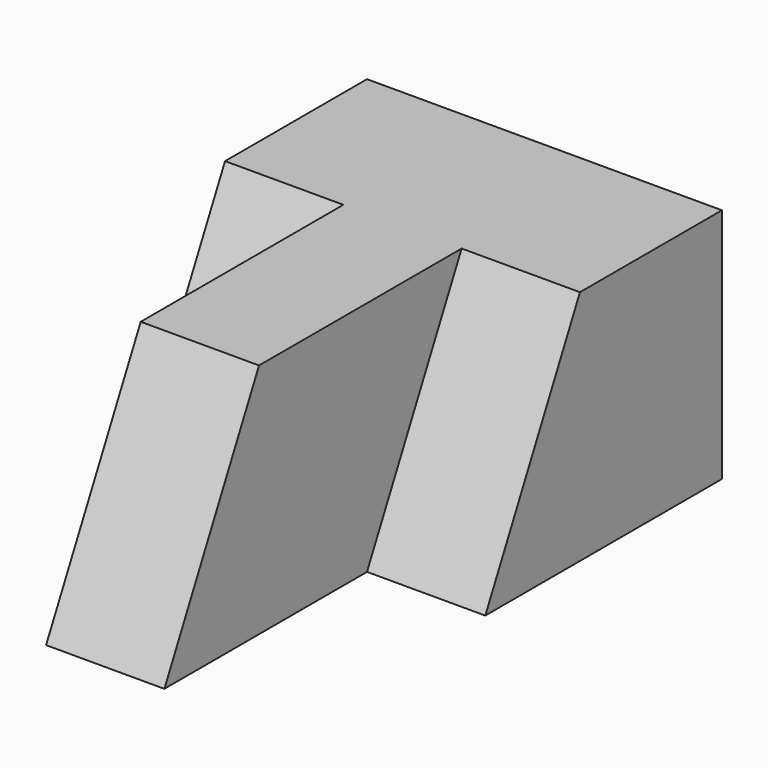
from build123d import *

# Parameters (mm, degrees)
F1_DEPTH = 25.4
F5_DEPTH = 12.7
F6_DEPTH = 25.4
F7_DEPTH = 12.7


with BuildPart() as f1:
    # F0 (on Top) → F1 (new body)
    with BuildSketch(Plane.XY):
        Polygon((12.7, 27.191021), (12.7, 0), (25.4, 0), (25.4, 27.191021), (38.1, 27.191021), (38.1, 58.941021), (0, 58.941021), (0, 27.191021), align=None)
    extrude(amount=F1_DEPTH)

    # F3 (on face) → F5 (cut)
    with BuildSketch(Plane.YZ.offset(38.1)):
        Polygon((27.191021, 25.4), (27.191021, 0), (39.891021, 25.4), align=None)
    extrude(amount=-F5_DEPTH, mode=Mode.SUBTRACT)

    # F2 (on face) → F6 (cut)
    with BuildSketch(Plane.YZ.offset(25.4)):
        Polygon((0, 25.4), (0, 0), (12.7, 25.4), align=None)
    extrude(amount=-F6_DEPTH, mode=Mode.SUBTRACT)

    # F4 (on face) → F7 (cut)
    with BuildSketch(Plane(origin=(0, 0, 0), x_dir=(0, -1, 0), z_dir=(-1, 0, 0))):
        Polygon((-27.191021, 25.4), (-39.891021, 25.4), (-27.191021, 0), align=None)
    extrude(amount=-F7_DEPTH, mode=Mode.SUBTRACT)


solid = f1.part
